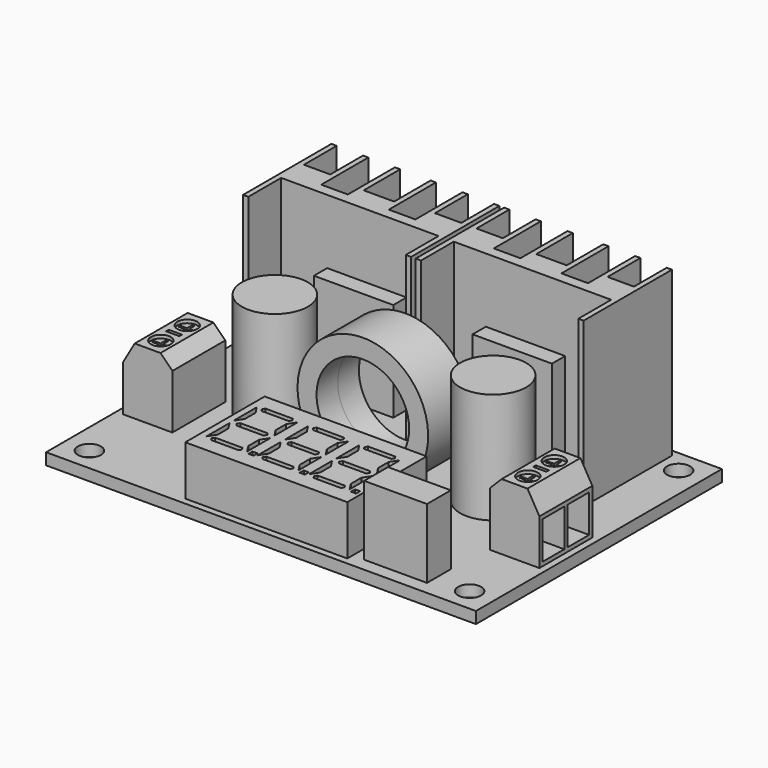
from build123d import *

# Parameters (mm, degrees)
SKETCH_W            = 65
SKETCH_H            = 46.5
PAD_DEPTH           = 1.75
SKETCH001_R         = 1.75
POCKET_DEPTH        = 1.751
SKETCH002_R         = 5
PAD001_DEPTH        = 16.75
SKETCH003_W         = 9.5
SKETCH003_H         = 4.5
PAD002_DEPTH        = 10.5
SKETCH004_W         = 24.5
SKETCH004_H         = 15
PAD003_DEPTH        = 7.5
SKETCH005_W         = 0.770722
SKETCH005_H         = 0.770723
POCKET001_DEPTH     = 1
LINEARPATTERN_COUNT = 3
LINEARPATTERN_PITCH = 7.75
PAD004_DEPTH        = 24.75
SKETCH007_W         = 12
SKETCH007_H         = 15
PAD005_DEPTH        = 2.5
SKETCH008_W         = 7.5
SKETCH008_H         = 10
PAD006_DEPTH        = 10
POCKET002_DEPTH     = 10
SKETCH010_R         = 1.5
SKETCH010_W         = 2
SKETCH010_H         = 0.5
POCKET003_DEPTH     = 0.5
POCKET004_DEPTH     = 0.5
SKETCH012_W         = 4.1
SKETCH012_H         = 5.682309
POCKET005_DEPTH     = 3.6
SKETCH013_R         = 9.875
SKETCH013_R_2       = 7
PAD007_DEPTH        = 4
PAD007_DEPTH_BACK   = 4


with BuildPart() as part:
    # Sketch → Pad (new body)
    with BuildSketch(Plane.XY):
        Rectangle(SKETCH_W, SKETCH_H)
    extrude(amount=PAD_DEPTH)

    # Sketch001 (on Face6 of Pad) → Pocket (cut, through all)
    with BuildSketch(Plane.XY.offset(1.75)):
        with Locations((-28.75, 19.75)):
            Circle(SKETCH001_R)
        with Locations((28.75, 19.75)):
            Circle(SKETCH001_R)
        with Locations((-28.75, -19.75)):
            Circle(SKETCH001_R)
        with Locations((28.75, -19.75)):
            Circle(SKETCH001_R)
    extrude(amount=-POCKET_DEPTH, mode=Mode.SUBTRACT)

    # Sketch002 (on Face5 of Pocket) → Pad001 (join)
    with BuildSketch(Plane.XY.offset(1.75)):
        with Locations((-16.5, 0)):
            Circle(SKETCH002_R)
        with Locations((16.5, 0)):
            Circle(SKETCH002_R)
    extrude(amount=PAD001_DEPTH)

    # Sketch003 (on Face5 of Pad001) → Pad002 (join)
    with BuildSketch(Plane.XY.offset(1.75)):
        with Locations((18.75, -19)):
            Rectangle(SKETCH003_W, SKETCH003_H)
    extrude(amount=PAD002_DEPTH)

    # Sketch004 (on Face5 of Pad002) → Pad003 (join)
    with BuildSketch(Plane.XY.offset(1.75)):
        with Locations((0, -14.75)):
            Rectangle(SKETCH004_W, SKETCH004_H)
    extrude(amount=PAD003_DEPTH)

    # Sketch005 (on Face21 of Pad003) → Pocket001 (cut)
    with BuildSketch(Plane.XY.offset(9.25)):
        Polygon((-10.229167, -9.604277), (-10.479277, -9.989639), (-10.229167, -10.375), (-6.104167, -10.375), (-5.854056, -9.989639), (-6.104167, -9.604277), align=None)
        Polygon((-11.25, -9.989639), (-10.479277, -11.177139), (-10.479277, -13.177139), (-11.25, -14.364639), align=None)
        Polygon((-5.854056, -11.177139), (-5.854056, -13.177139), (-5.083333, -14.364639), (-5.083333, -9.989639), align=None)
        Polygon((-10.479277, -14.75), (-10.229167, -14.364639), (-6.104167, -14.364639), (-5.854056, -14.75), (-6.104167, -15.135361), (-10.229167, -15.135361), align=None)
        Polygon((-11.25, -15.135361), (-11.25, -19.510361), (-10.479277, -18.322861), (-10.479277, -16.322861), align=None)
        Polygon((-5.854056, -16.322861), (-5.854056, -18.322861), (-5.083333, -19.510361), (-5.083333, -15.135361), align=None)
        Polygon((-10.479277, -19.510361), (-10.229167, -19.125), (-6.104167, -19.125), (-5.854056, -19.510361), (-6.104167, -19.895723), (-10.229167, -19.895723), align=None)
        with Locations((-4.197972, -19.510362)):
            Rectangle(SKETCH005_W, SKETCH005_H)
    pocket001 = extrude(amount=-POCKET001_DEPTH, mode=Mode.SUBTRACT)

    # LinearPattern: Pocket001 ×3
    with Locations(*[(i * LINEARPATTERN_PITCH, 0, 0) for i in range(1, LINEARPATTERN_COUNT)]):
        add(pocket001, mode=Mode.SUBTRACT)

    # Sketch006 (on Face5 of LinearPattern) → Pad004 (join)
    with BuildSketch(Plane.XY.offset(1.75)):
        Polygon((25.75, 5.55), (25.75, 22.25), (24.95, 22.25), (24.95, 16.05), (20.97, 16.05), (20.97, 22.25), (20.17, 22.25), (20.17, 13.35), (16.15, 13.35), (16.15, 22.25), (15.35, 22.25), (15.35, 15.35), (10.75, 15.35), (10.75, 22.25), (9.95, 22.25), (9.95, 13.35), (5.93, 13.35), (5.93, 22.25), (5.13, 22.25), (5.13, 16.05), (1.15, 16.05), (1.15, 22.25), (0.35, 22.25), (0.35, 5.55), (1.15, 5.55), (1.15, 11.75), (24.95, 11.75), (24.95, 5.55), align=None)
    pad004 = extrude(amount=PAD004_DEPTH)

    # Sketch007 (on Face30 of Pad004) → Pad005 (join)
    with BuildSketch(Plane.XZ.offset(-11.75)):
        with Locations((11.996465, 9.25)):
            Rectangle(SKETCH007_W, SKETCH007_H)
    pad005 = extrude(amount=PAD005_DEPTH)

    # Mirrored: Pad004, Pad005 across Sketch006 V_Axis
    add(pad004.mirror(Plane(origin=(0, 0, 1.75), x_dir=(0, 0, 1), z_dir=(1, 0, 0))))
    add(pad005.mirror(Plane(origin=(0, 0, 1.75), x_dir=(0, 0, 1), z_dir=(1, 0, 0))))

    # Sketch008 (on Face5 of Mirrored) → Pad006 (join)
    with BuildSketch(Plane.XY.offset(1.75)):
        with Locations((27.75, -5)):
            Rectangle(SKETCH008_W, SKETCH008_H)
    pad006 = extrude(amount=PAD006_DEPTH)

    # Sketch009 (on Face20 of Pad006) → Pocket002 (cut)
    with BuildSketch(Plane.XZ.offset(10)):
        Polygon((29.7, 11.75), (31.5, 8.632309), (31.5, 11.75), align=None)
        Polygon((25.8, 11.75), (24, 9.95), (24, 11.75), align=None)
    pocket002 = extrude(amount=-POCKET002_DEPTH, mode=Mode.SUBTRACT)

    # Sketch010 (on Face91 of Pocket002) → Pocket003 (cut)
    with BuildSketch(Plane.XY.offset(11.75)):
        with Locations((27.75, -2.5)):
            Circle(SKETCH010_R)
        with Locations((27.75, -7.5)):
            Circle(SKETCH010_R)
        with Locations((27.75, -5)):
            Rectangle(SKETCH010_W, SKETCH010_H)
    pocket003 = extrude(amount=-POCKET003_DEPTH, mode=Mode.SUBTRACT)

    # Sketch011 (on Face242 of Pocket003) → Pocket004 (cut)
    with BuildSketch(Plane.XY.offset(11.25)):
        Polygon((26.575, -2.325), (27.575, -2.325), (27.575, -1.325), (27.925, -1.325), (27.925, -2.325), (28.925, -2.325), (28.925, -2.675), (27.925, -2.675), (27.925, -3.675), (27.575, -3.675), (27.575, -2.675), (26.575, -2.675), align=None)
        Polygon((27.575, -6.325), (27.575, -7.325), (26.575, -7.325), (26.575, -7.675), (27.575, -7.675), (27.575, -8.675), (27.925, -8.675), (27.925, -7.675), (28.925, -7.675), (28.925, -7.325), (27.925, -7.325), (27.925, -6.325), align=None)
    pocket004 = extrude(amount=-POCKET004_DEPTH, mode=Mode.SUBTRACT)

    # Sketch012 (on Face21 of Pocket004) → Pocket005 (cut)
    with BuildSketch(Plane.YZ.offset(31.5)):
        with Locations((-7.35, 5.191154)):
            Rectangle(SKETCH012_W, SKETCH012_H)
        with Locations((-2.65, 5.191154)):
            Rectangle(SKETCH012_W, SKETCH012_H)
    pocket005 = extrude(amount=-POCKET005_DEPTH, mode=Mode.SUBTRACT)

    # Mirrored001: Pad006, Pocket002, Pocket003, Pocket004, Pocket005 across Sketch008 V_Axis
    add(pad006.mirror(Plane(origin=(0, 0, 1.75), x_dir=(0, 0, 1), z_dir=(1, 0, 0))))
    add(pocket002.mirror(Plane(origin=(0, 0, 1.75), x_dir=(0, 0, 1), z_dir=(1, 0, 0))), mode=Mode.SUBTRACT)
    add(pocket003.mirror(Plane(origin=(0, 0, 1.75), x_dir=(0, 0, 1), z_dir=(1, 0, 0))), mode=Mode.SUBTRACT)
    add(pocket004.mirror(Plane(origin=(0, 0, 1.75), x_dir=(0, 0, 1), z_dir=(1, 0, 0))), mode=Mode.SUBTRACT)
    add(pocket005.mirror(Plane(origin=(0, 0, 1.75), x_dir=(0, 0, 1), z_dir=(1, 0, 0))), mode=Mode.SUBTRACT)

    # Sketch013 → Pad007 (join, two sides)
    with BuildSketch(Plane.XZ) as pad007_sk:
        with Locations((0, 9.875)):
            Circle(SKETCH013_R)
        with Locations((0, 9.875)):
            Circle(SKETCH013_R_2, mode=Mode.SUBTRACT)
    extrude(amount=PAD007_DEPTH)
    extrude(pad007_sk.sketch, amount=-PAD007_DEPTH_BACK)


solid = part.part
